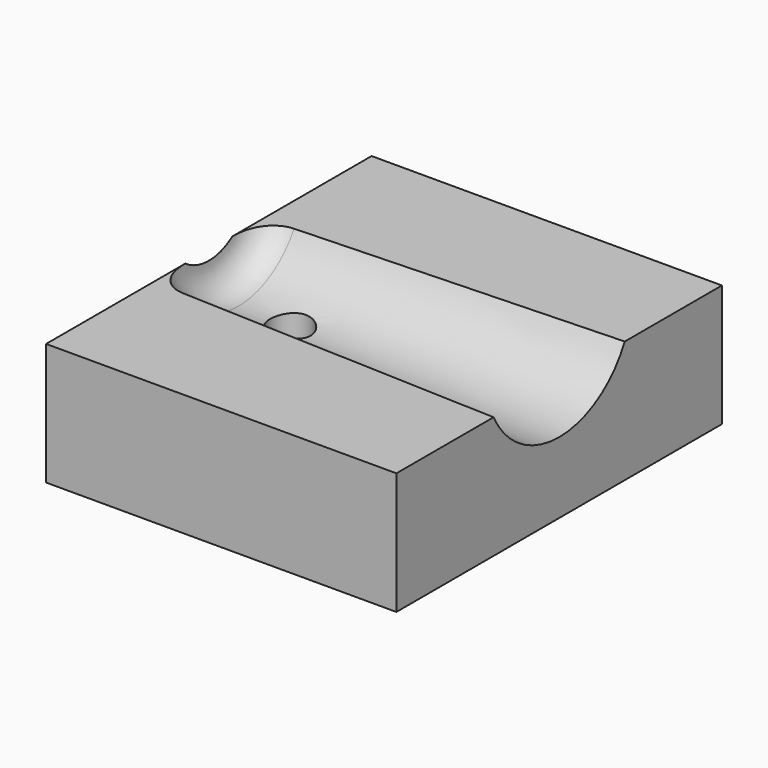
from build123d import *

# Parameters (mm, degrees)
F0_W     = 8.61
F0_H     = 10
F1_DEPTH = 3
F4_R     = 0.5
F5_DEPTH = 25


with BuildPart() as f1:
    # F0 (on Top) → F1 (new body)
    with BuildSketch(Plane.XY):
        Rectangle(F0_W, F0_H)
    extrude(amount=-F1_DEPTH)

    # F2 (on Front) → F3 (revolve, cut)
    with BuildSketch(Plane.XZ):
        with BuildLine():
            ThreePointArc((-4.305, -0.233333), (-4.094232, -0.75461), (-3.58039, -0.982903))
            Line((-3.58039, -0.982903), (4.305, -1.25))
            Line((4.305, -1.25), (4.305, 1))
            Line((4.305, 1), (-4.305, 1))
            Line((-4.305, 1), (-4.305, -0.233333))
        make_face()
    revolve(axis=Axis((0, 0, 1), (-1, 0, 0)), mode=Mode.SUBTRACT)

    # F4 (on face) → F5 (cut)
    with BuildSketch(Plane.XY):
        with Locations((-2.305, 0)):
            Circle(F4_R)
    extrude(amount=-F5_DEPTH, mode=Mode.SUBTRACT)


solid = f1.part
